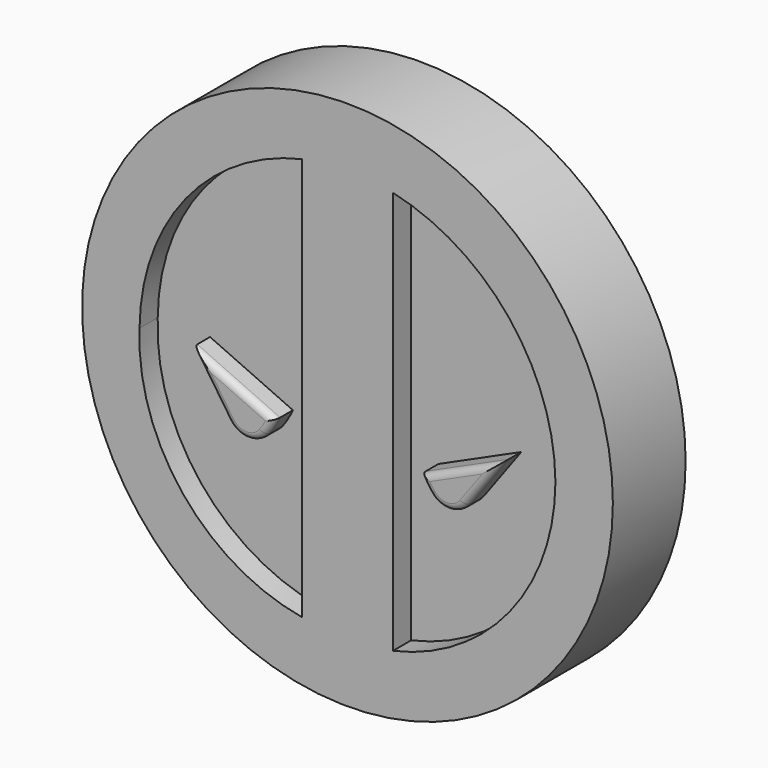
from build123d import *

# Parameters (mm, degrees)
F0_R     = 74.1026
F1_DEPTH = 12.7
F2_DEPTH = 6.35
F3_DEPTH = 12.7
F4_R     = 1.905


with BuildPart() as f1:
    # F0 (on Front) → F1 (new body, symmetric)
    with BuildSketch(Plane.XZ):
        Circle(F0_R)
        with BuildLine():
            Line((12.7, -56.305081), (12.7, 56.305081))
            ThreePointArc((12.7, 56.305081), (45.16875, 36.037206), (58.065501, 0))
            ThreePointArc((58.065501, 0), (45.258761, -36.10973), (12.7, -56.305081))
        make_face(mode=Mode.SUBTRACT)
        with BuildLine():
            ThreePointArc((-58.065501, 0), (-45.16875, 36.037206), (-12.7, 56.305081))
            Line((-12.7, 56.305081), (-12.7, -56.305081))
            ThreePointArc((-12.7, -56.305081), (-46.002553, -36.709009), (-58.065501, 0))
        make_face(mode=Mode.SUBTRACT)
    extrude(amount=F1_DEPTH, both=True)

    # F0 (on Front) → F2 (join, symmetric)
    with BuildSketch(Plane.XZ):
        with BuildLine():
            Line((-12.7, -56.305081), (-12.7, 56.305081))
            ThreePointArc((-12.7, 56.305081), (-45.16875, 36.037206), (-58.065501, 0))
            ThreePointArc((-58.065501, 0), (-46.002553, -36.709009), (-12.7, -56.305081))
        make_face()
        with BuildLine():
            Line((-43.460501, 0), (-20.32, -10.472688))
            ThreePointArc((-20.32, -10.472688), (-21.550138, -12.848968), (-23.023436, -15.082651))
            ThreePointArc((-23.023436, -15.082651), (-28.261599, -17.66068), (-33.390806, -14.872163))
            Line((-33.390806, -14.872163), (-43.460501, 0))
        make_face(mode=Mode.SUBTRACT)
        with BuildLine():
            ThreePointArc((58.065501, 0), (45.16875, 36.037206), (12.7, 56.305081))
            Line((12.7, 56.305081), (12.7, -56.305081))
            ThreePointArc((12.7, -56.305081), (45.258761, -36.10973), (58.065501, 0))
        make_face()
        with BuildLine():
            ThreePointArc((22.929982, -14.532426), (21.511965, -12.57522), (20.32, -10.472688))
            Line((20.32, -10.472688), (43.460501, 0))
            Line((43.460501, 0), (32.976203, -14.284045))
            ThreePointArc((32.976203, -14.284045), (28.014074, -16.874772), (22.929982, -14.532426))
        make_face(mode=Mode.SUBTRACT)
    extrude(amount=F2_DEPTH, both=True)

    # F0 (on Front) → F3 (join, symmetric)
    with BuildSketch(Plane.XZ):
        with BuildLine():
            ThreePointArc((-23.023436, -15.082651), (-21.550138, -12.848968), (-20.32, -10.472688))
            Line((-20.32, -10.472688), (-43.460501, 0))
            Line((-43.460501, 0), (-33.390806, -14.872163))
            ThreePointArc((-33.390806, -14.872163), (-28.261599, -17.66068), (-23.023436, -15.082651))
        make_face()
        with BuildLine():
            Line((43.460501, 0), (20.32, -10.472688))
            ThreePointArc((20.32, -10.472688), (21.511965, -12.57522), (22.929982, -14.532426))
            ThreePointArc((22.929982, -14.532426), (28.014074, -16.874772), (32.976203, -14.284045))
            Line((32.976203, -14.284045), (43.460501, 0))
        make_face()
    extrude(amount=F3_DEPTH, both=True)

    # F4
    f4_edges = [f1.edges().sort_by_distance(p)[0] for p in [
        (-38.425654, -12.7, -7.436082),
        (38.218352, -12.7, -7.142023),
        (-31.890251, -12.7, -5.236344),
        (31.890251, -12.7, -5.236344),
    ]]
    fillet(f4_edges, radius=F4_R)


solid = f1.part
